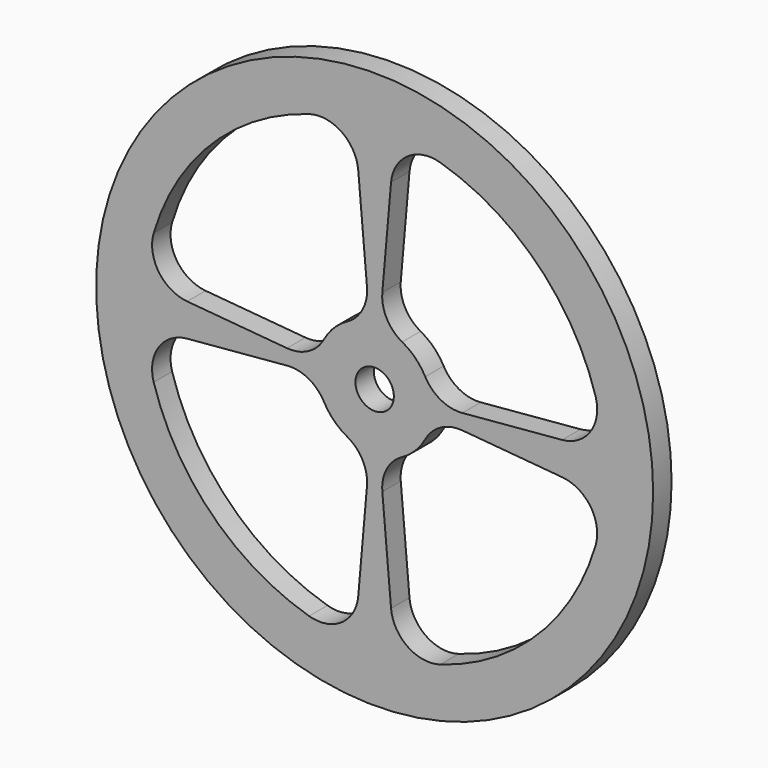
from build123d import *

# Parameters (mm, degrees)
F0_R     = 36.25
F0_R_2   = 2.5
F1_DEPTH = 3
F3_DEPTH = 25
F4_R     = 5


with BuildPart() as f1:
    # F0 (on Front) → F1 (new body)
    with BuildSketch(Plane.XZ):
        Circle(F0_R)
        Circle(F0_R_2, mode=Mode.SUBTRACT)
    extrude(amount=F1_DEPTH)

    # F2 (on face) → F3 (cut)
    with BuildSketch(Plane.XZ.offset(3)):
        with BuildLine():
            ThreePointArc((-29.885841, -2.614672), (-21.213203, -21.213203), (-2.614672, -29.885841))
            Line((-2.614672, -29.885841), (-0.653668, -7.47146))
            ThreePointArc((-0.653668, -7.47146), (-5.303301, -5.303301), (-7.47146, -0.653668))
            Line((-7.47146, -0.653668), (-29.885841, -2.614672))
        make_face()
        with BuildLine():
            Line((-0.653668, 7.47146), (-2.614672, 29.885841))
            ThreePointArc((-2.614672, 29.885841), (-21.213203, 21.213203), (-29.885841, 2.614672))
            Line((-29.885841, 2.614672), (-7.47146, 0.653668))
            ThreePointArc((-7.47146, 0.653668), (-5.303301, 5.303301), (-0.653668, 7.47146))
        make_face()
        with BuildLine():
            Line((7.47146, 0.653668), (29.885841, 2.614672))
            ThreePointArc((29.885841, 2.614672), (21.213203, 21.213203), (2.614672, 29.885841))
            Line((2.614672, 29.885841), (0.653668, 7.47146))
            ThreePointArc((0.653668, 7.47146), (5.303301, 5.303301), (7.47146, 0.653668))
        make_face()
        with BuildLine():
            ThreePointArc((2.614672, -29.885841), (21.213203, -21.213203), (29.885841, -2.614672))
            Line((29.885841, -2.614672), (7.47146, -0.653668))
            ThreePointArc((7.47146, -0.653668), (5.303301, -5.303301), (0.653668, -7.47146))
            Line((0.653668, -7.47146), (2.614672, -29.885841))
        make_face()
    extrude(amount=-F3_DEPTH, mode=Mode.SUBTRACT)

    # F4
    f4_edges = [f1.edges().sort_by_distance(p)[0] for p in [
        (-0.653668, -1.5, 7.47146),
        (-7.47146, -1.5, 0.653668),
        (7.47146, -1.5, -0.653668),
        (0.653668, -1.5, -7.47146),
        (-7.47146, -1.5, -0.653668),
        (-0.653668, -1.5, -7.47146),
        (0.653668, -1.5, 7.47146),
        (7.47146, -1.5, 0.653668),
        (2.614672, -1.5, 29.885841),
        (-29.885841, -1.5, -2.614672),
        (29.885841, -1.5, -2.614672),
        (-2.614672, -1.5, -29.885841),
        (29.885841, -1.5, 2.614672),
        (-29.885841, -1.5, 2.614672),
        (2.614672, -1.5, -29.885841),
        (-2.614672, -1.5, 29.885841),
    ]]
    fillet(f4_edges, radius=F4_R)


solid = f1.part
